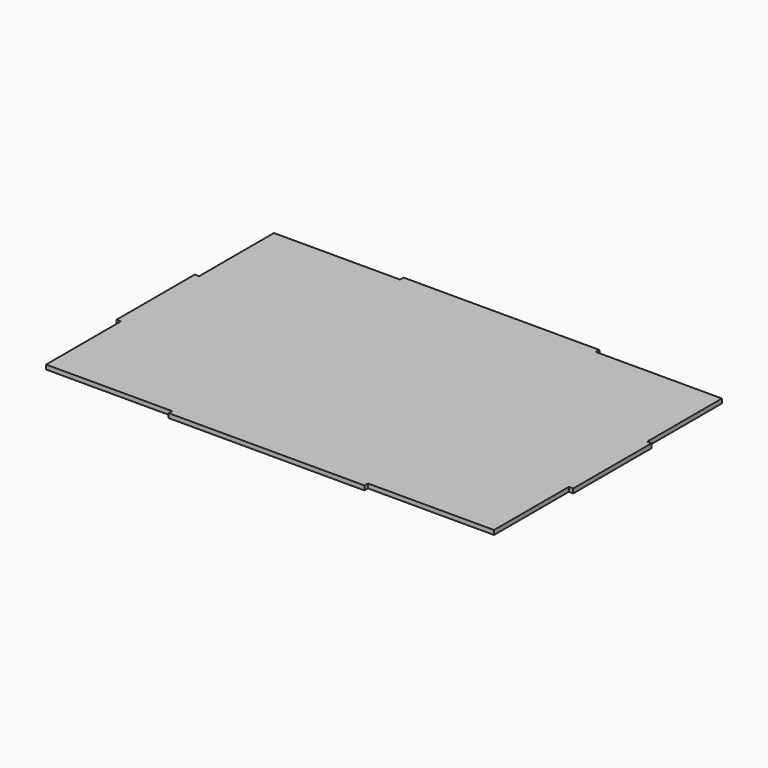
from build123d import *

# Parameters (mm, degrees)
F1_DEPTH = 3.4163


with BuildPart() as f1:
    # F0 (on Top) → F1 (new body)
    with BuildSketch(Plane.XY):
        Polygon((-76.2, -110.8837), (-76.2, -114.3), (76.2, -114.3), (76.2, -110.8837), (174.3837, -110.8837), (174.3837, -38.1), (177.8, -38.1), (177.8, 38.1), (174.3837, 38.1), (174.3837, 110.8837), (76.2, 110.8837), (76.2, 114.3), (-76.2, 114.3), (-76.2, 110.8837), (-174.3837, 110.8837), (-174.3837, 38.1), (-177.8, 38.1), (-177.8, -38.1), (-174.3837, -38.1), (-174.3837, -110.8837), align=None)
    extrude(amount=F1_DEPTH)


solid = f1.part
